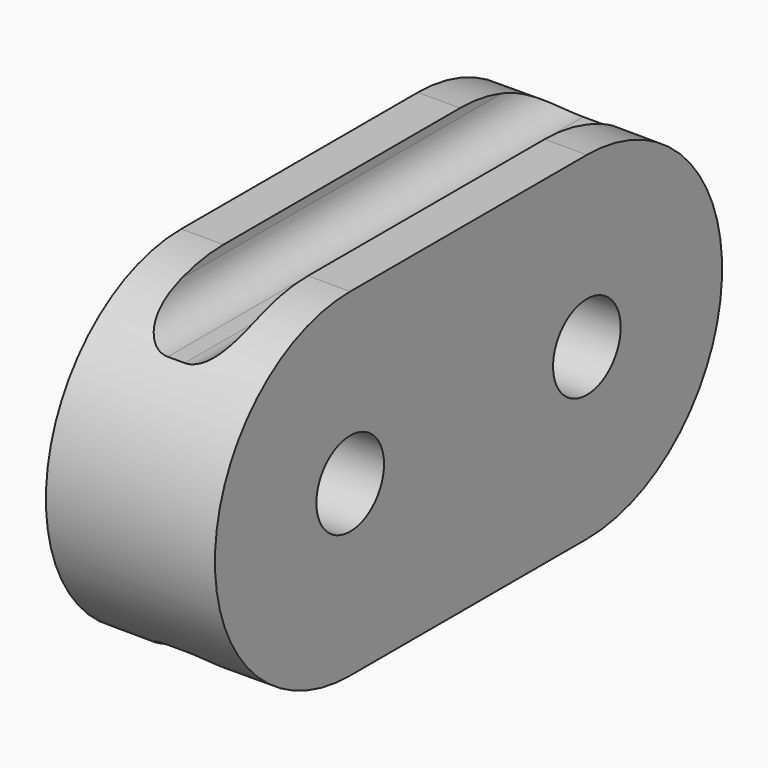
from build123d import *

# Parameters (mm, degrees)
F0_R     = 3.175
F1_DEPTH = 6.35
F2_W     = 6.35
F2_H     = 24.715454
F2_H_2   = 28.652428
F3_DEPTH = 50.8
F4_R     = 2.54


with BuildPart() as f1:
    # F0 (on Right) → F1 (new body, symmetric)
    with BuildSketch(Plane.YZ):
        with BuildLine():
            Line((-22.225, -12.7), (0, -12.7))
            ThreePointArc((0, -12.7), (12.7, 0), (0, 12.7))
            Line((0, 12.7), (-22.225, 12.7))
            ThreePointArc((-22.225, 12.7), (-34.925, 0), (-22.225, -12.7))
        make_face()
        with Locations((-22.225, 0)):
            Circle(F0_R, mode=Mode.SUBTRACT)
        Circle(F0_R, mode=Mode.SUBTRACT)
    extrude(amount=F1_DEPTH, both=True)

    # F2 (on Front) → F3 (cut, symmetric)
    with BuildSketch(Plane.XZ):
        with Locations((0, 21.882727)):
            Rectangle(F2_W, F2_H)
        with Locations((0, -23.851214)):
            Rectangle(F2_W, F2_H_2)
    extrude(amount=F3_DEPTH, both=True, mode=Mode.SUBTRACT)

    # F4
    f4_edges = [f1.edges().sort_by_distance(p)[0] for p in [
        (-3.175, -11.1125, 9.525),
        (3.175, -11.1125, 9.525),
        (-3.175, -11.1125, -9.525),
        (3.175, -11.1125, -9.525),
    ]]
    fillet(f4_edges, radius=F4_R)


solid = f1.part
